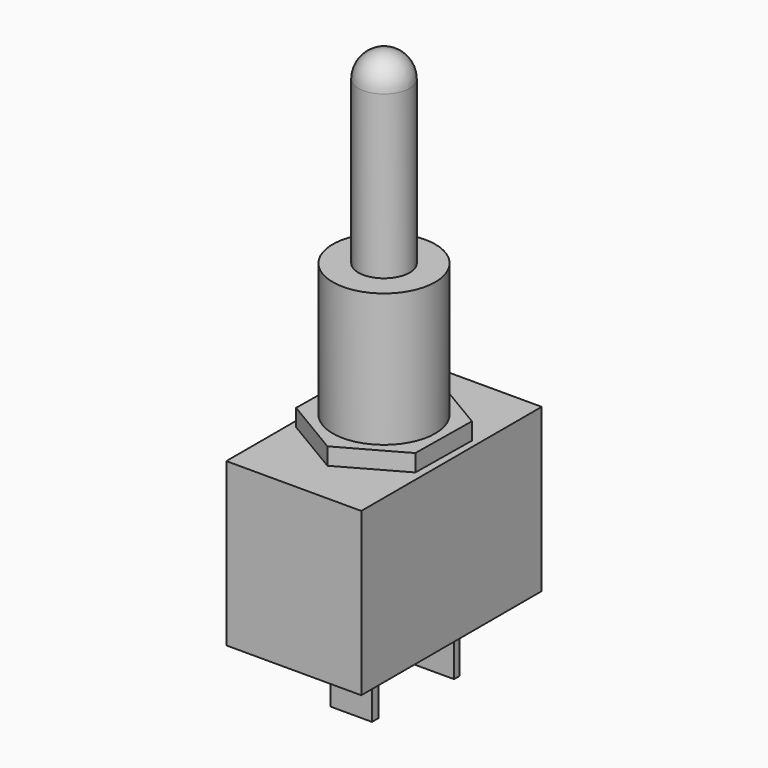
from build123d import *

# Parameters (mm, degrees)
F0_W      = 13.2
F0_H      = 9.5
F1_DEPTH  = 7.9
F2_R      = 3
F3_DEPTH  = 8.8
F4_R      = 1.5
F5_DEPTH  = 11
F6_R      = 1.5
F7_W      = 2.424983
F7_H      = 0.470519
F7_W_2    = 2.78692
F7_H_2    = 0.398131
F8_DEPTH  = 4
F10_DEPTH = 1


with BuildPart() as f1:
    # F0 (on Right) → F1 (new body)
    with BuildSketch(Plane.YZ):
        with Locations((6.6, 4.75)):
            Rectangle(F0_W, F0_H)
    extrude(amount=F1_DEPTH)

    # F2 (on face) → F3 (join)
    with BuildSketch(Plane.XY.offset(9.5)):
        with Locations((3.95, 6.6)):
            Circle(F2_R)
    extrude(amount=F3_DEPTH)

    # F4 (on face) → F5 (join)
    with BuildSketch(Plane.XY.offset(18.3)):
        with Locations((3.95, 6.6)):
            Circle(F4_R)
    extrude(amount=F5_DEPTH)

    # F6
    f6_edges = [f1.edges().sort_by_distance(p)[0] for p in [
        (2.45, 6.6, 29.3),
    ]]
    fillet(f6_edges, radius=F6_R)

    # F7 (on face) → F8 (join)
    with BuildSketch(Plane(origin=(0, 0, 0), x_dir=(1, 0, 0), z_dir=(0, 0, -1))):
        with Locations((3.917066, -4.48028)):
            Rectangle(F7_W, F7_H)
        with Locations((4.025647, -10.090314)):
            Rectangle(F7_W_2, F7_H_2)
    extrude(amount=F8_DEPTH)

    # F9 (on face) → F10 (join)
    with BuildSketch(Plane.XY.offset(9.5)):
        Polygon((3.896882, 2.52701), (7.450754, 4.517503), (7.503872, 8.590493), (4.003118, 10.67299), (0.449246, 8.682497), (0.396128, 4.609507), align=None)
    extrude(amount=F10_DEPTH)


solid = f1.part
